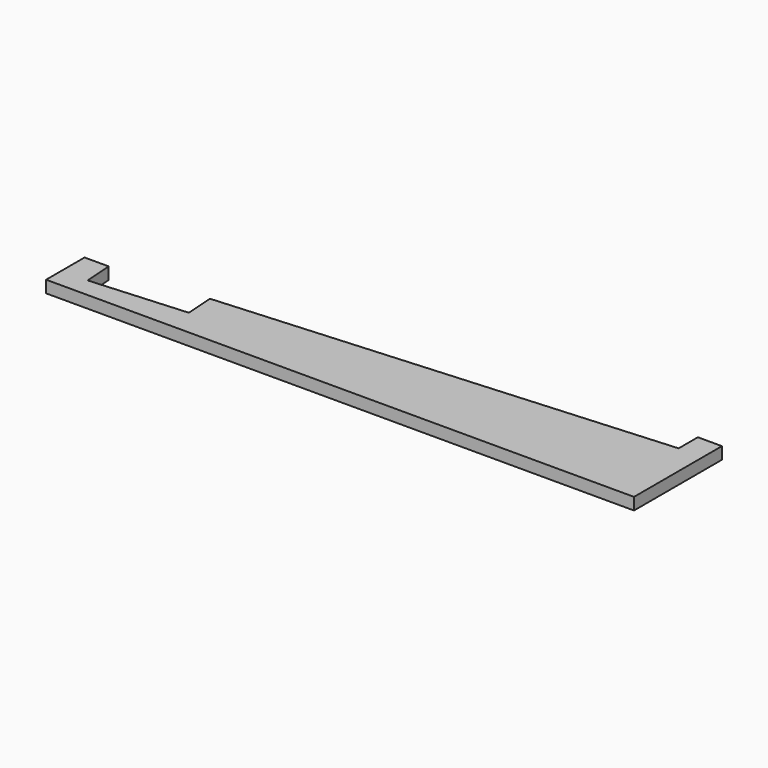
from build123d import *

# Parameters (mm, degrees)
PAD_DEPTH = 2.5


with BuildPart() as part:
    # Sketch → Pad (new body, symmetric)
    with BuildSketch(Plane.XY):
        Polygon((49.902562, 22.790259), (234.451911, 35.695207), (234.451911, 45.695207), (244.451911, 45.695207), (244.451911, 0), (0, 0), (0, 20), (10, 20), (10.837078, 8.029231), (50.73964, 10.81949), align=None)
    extrude(amount=PAD_DEPTH, both=True)


solid = part.part
